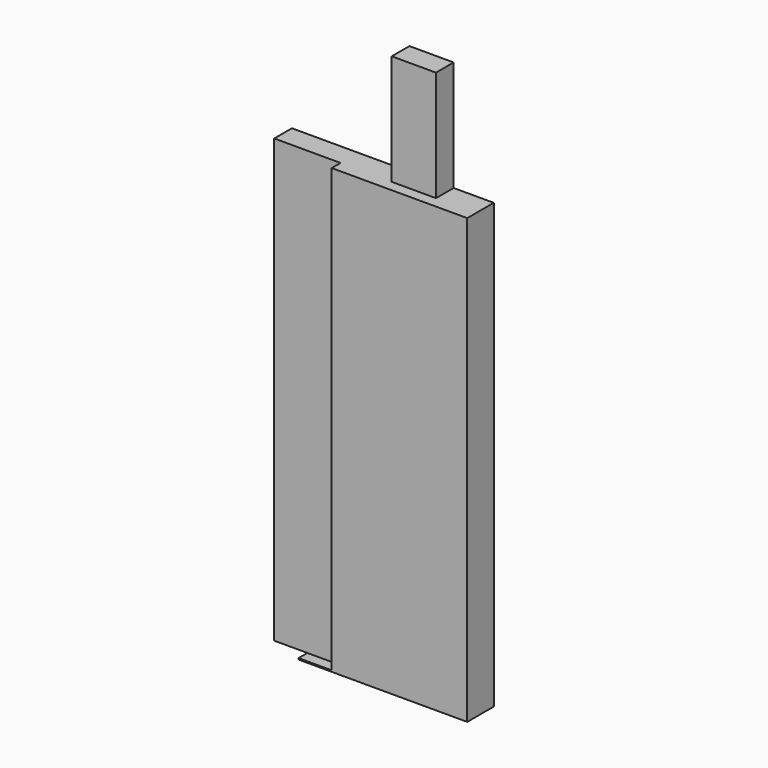
from build123d import *

# Parameters (mm, degrees)
F1_DEPTH = 19.05
F0_W     = 19.05
F0_H     = 254
F0_W_2   = 25.4
F0_H_2   = 63.5
F2_DEPTH = 12.7


with BuildPart() as f1:
    # F0 (on Front) → F1 (new body)
    with BuildSketch(Plane.XZ):
        Polygon((-5.2587399386, 123.4248239994), (-34.6517975256, 123.4248239994), (-34.6517975256, -130.5751760006), (-53.7017975256, -130.5751760006), (-53.7017975256, -131.3558220863), (43.1843176484, -131.3558220863), (43.1843176484, 123.4248239994), (20.1412600614, 123.4248239994), align=None)
    extrude(amount=F1_DEPTH)

    # F0 (on Front) → F2 (join)
    with BuildSketch(Plane.XZ):
        with Locations((-44.1767975256, -3.5751760006)):
            Rectangle(F0_W, F0_H)
        with Locations((-63.2267975256, -3.5751760006)):
            Rectangle(F0_W, F0_H)
        with Locations((7.4412600614, 155.1748239994)):
            Rectangle(F0_W_2, F0_H_2)
    extrude(amount=F2_DEPTH)


solid = f1.part
